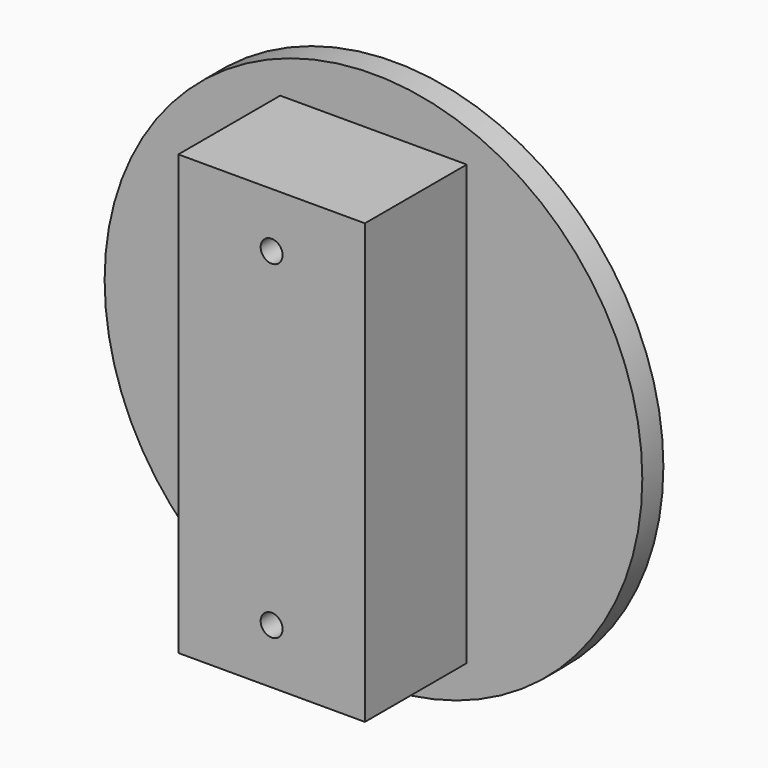
from build123d import *

# Parameters (mm, degrees)
F0_R     = 12.25
F0_W     = 8.5
F0_H     = 20
F1_DEPTH = 1.2
F2_DEPTH = 7
F3_R     = 0.5
F4_DEPTH = 5


with BuildPart() as f1:
    # F0 (on Front) → F1 (new body)
    with BuildSketch(Plane.XZ):
        Circle(F0_R)
        Rectangle(F0_W, F0_H, mode=Mode.SUBTRACT)
    extrude(amount=F1_DEPTH)

    # F0 (on Front) → F2 (join)
    with BuildSketch(Plane.XZ):
        Rectangle(F0_W, F0_H)
    extrude(amount=F2_DEPTH)

    # F3 (on face) → F4 (cut)
    with BuildSketch(Plane.XZ.offset(7)):
        with Locations((0, -7.5)):
            Circle(F3_R)
        with Locations((0, 7.5)):
            Circle(F3_R)
    extrude(amount=-F4_DEPTH, mode=Mode.SUBTRACT)


solid = f1.part
